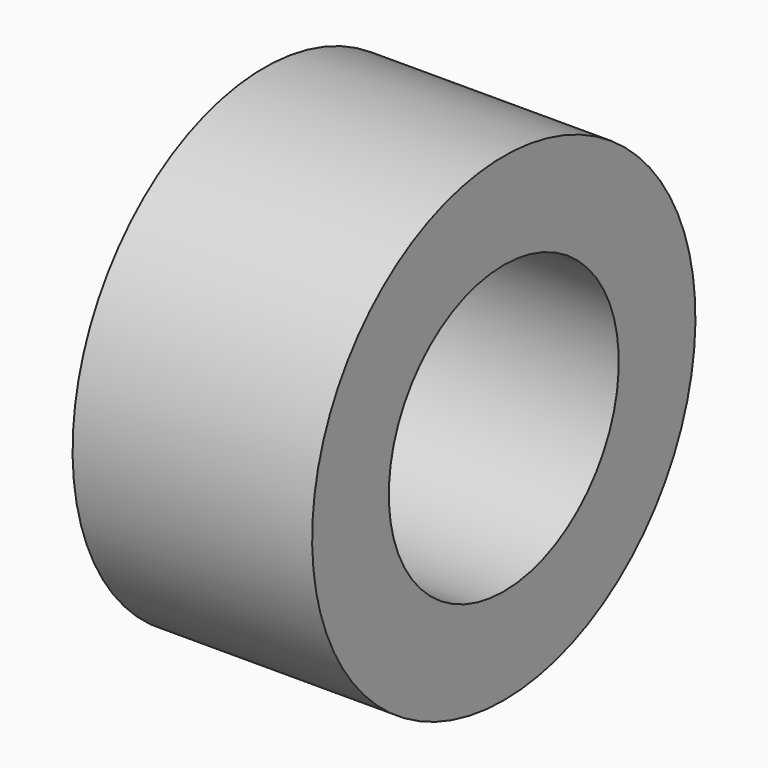
from build123d import *

# Parameters (mm, degrees)
CYLINDER007_R           = 6
CYLINDER007_DEPTH       = 236
CYLINDER007_PITCH_ANGLE = 90
CYLINDER006_R           = 10
CYLINDER006_DEPTH       = 10
CYLINDER006_PITCH_ANGLE = 90


with BuildPart() as connector_bore:
    # Cylinder007 → Cylinder007 (new body)
    with BuildSketch(Plane.XY):
        Circle(CYLINDER007_R)
    extrude(amount=CYLINDER007_DEPTH)


with BuildPart() as connector_bore_1:
    # Cylinder007 pitch: moved
    add(connector_bore.part.rotate(Axis((0, 0, 0), (0, 1, 0)), CYLINDER007_PITCH_ANGLE))


with BuildPart() as connector_bore_2:
    # Cylinder007 placement: moved
    add(connector_bore_1.part.moved(Location((-45, 0, 0))))


with BuildPart() as cut001:
    # Cylinder006 → Cylinder006 (new body)
    with BuildSketch(Plane.XY):
        Circle(CYLINDER006_R)
    extrude(amount=CYLINDER006_DEPTH)


with BuildPart() as cut001_1:
    # Cylinder006 pitch: moved
    add(cut001.part.rotate(Axis((0, 0, 0), (0, 1, 0)), CYLINDER006_PITCH_ANGLE))


with BuildPart() as cut001_2:
    # Cylinder006 placement: moved
    add(cut001_1.part.moved(Location((181, 0, 0))))

    # Cut001: cut connector_bore
    add(connector_bore_2.part, mode=Mode.SUBTRACT)


solid = cut001_2.part
